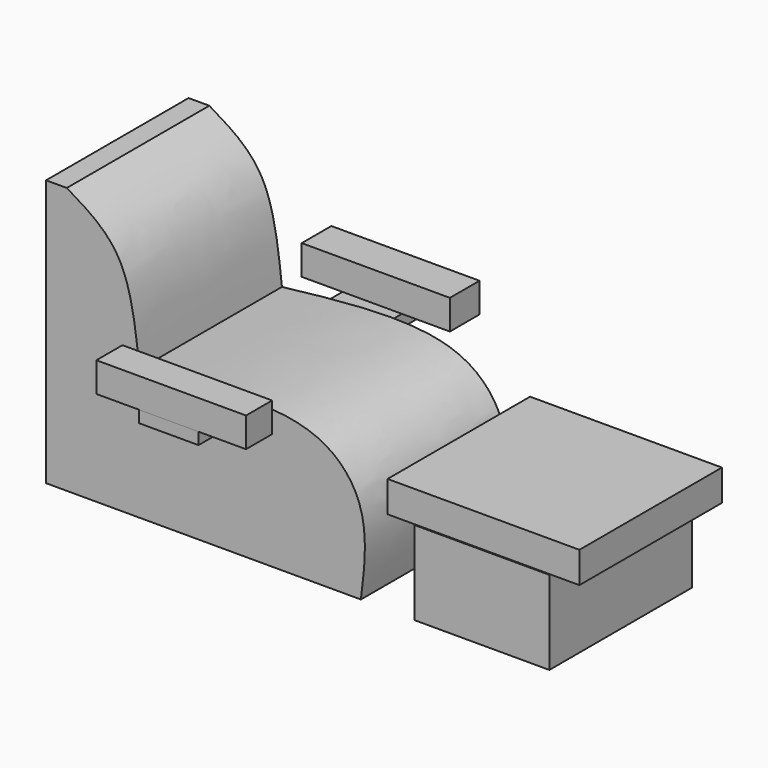
from build123d import *

# Parameters (mm, degrees)
F1_DEPTH = 76.2
F2_W     = 64.0079975128
F2_H     = 13.9423385262
F3_DEPTH = 12.7
F2_W_2   = 63.3742548525
F2_H_2   = 15.8435637131
F4_W     = 25.5835857242
F4_H     = 5.228376016
F5_DEPTH = 25.4
F4_W_2   = 24.3990942836
F6_W     = 57.6705858111
F6_H     = 35.8064584434
F7_DEPTH = 76.2
F8_W     = 82.0696726441
F8_H     = 13.3085940033
F9_DEPTH = 76.2


with BuildPart() as f1:
    # F0 (on Front) → F1 (new body)
    with BuildSketch(Plane.XZ):
        with BuildLine():
            add(Edge.make_bspline(
                [(-49.1150505841, 58.1458806992), (-40.9001251508, 53.260319122), (-22.7413471261, 42.4609723807), (-19.7175260083, 15.0244173228), (-18.0616639555, 0)],
                knots=[0, 0, 0, 0, 0.4523941766, 1, 1, 1, 1], degree=3))
            Line((-49.1150505841, 58.1458806992), (-57.9874478281, 58.1458806992))
            Line((-57.9874478281, 58.1458806992), (-57.9874478281, 0))
            Line((-57.9874478281, 0), (-57.9874478281, -55.9277832508))
            Line((-57.9874478281, -55.9277832508), (76.6828507185, -55.9277832508))
            add(Edge.make_bspline(
                [(76.6828507185, -55.9277832508), (78.17864908, -44.0785526487), (81.0901294151, -21.014747544), (56.3187828934, 8.5941915447), (10.0981671256, 3.2536908883), (-18.0616639555, 0)],
                knots=[0, 0, 0, 0, 0.2922183757, 0.5687852563, 1, 1, 1, 1], degree=3))
        make_face()
    extrude(amount=F1_DEPTH)


with BuildPart() as f3:
    # F2 (on Top) → F3 (new body)
    with BuildSketch(Plane.XY):
        with Locations((13.9181278646, -92.2095440328)):
            Rectangle(F2_W, F2_H)
    extrude(amount=F3_DEPTH)


with BuildPart() as f3b:
    # F2 (on Top) → F3, piece 2 (new body)
    with BuildSketch(Plane.XY):
        with Locations((14.2349991947, 17.744790297)):
            Rectangle(F2_W_2, F2_H_2)
    extrude(amount=F3_DEPTH)


with BuildPart() as f5:
    # F4 (on Right) → F5 (new body)
    with BuildSketch(Plane.YZ):
        with Locations((12.7917928621, -2.614188008)):
            Rectangle(F4_W, F4_H)
    extrude(amount=F5_DEPTH)


with BuildPart() as f5b:
    # F4 (on Right) → F5, piece 2 (new body)
    with BuildSketch(Plane.YZ):
        with Locations((-86.7472924292, -2.614188008)):
            Rectangle(F4_W_2, F4_H)
    extrude(amount=F5_DEPTH)


with BuildPart() as f7:
    # F6 (on Front) → F7 (new body)
    with BuildSketch(Plane.XZ):
        with Locations((128.4671016037, -38.3414272219)):
            Rectangle(F6_W, F6_H)
    extrude(amount=F7_DEPTH)


with BuildPart() as f9:
    # F8 (on Front) → F9 (new body)
    with BuildSketch(Plane.XZ):
        with Locations((129.1167251766, -13.4670296684)):
            Rectangle(F8_W, F8_H)
    extrude(amount=F9_DEPTH)


solid = Compound([f1.part, f3.part, f3b.part, f5.part, f5b.part, f7.part, f9.part])
